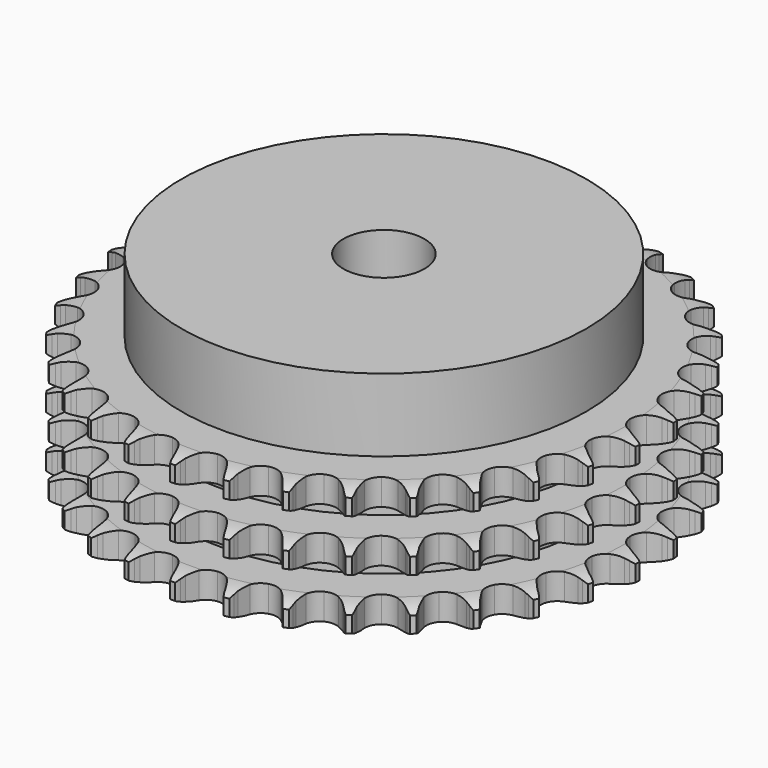
from build123d import *

# Parameters (mm, degrees)
PAD_DEPTH         = 25.6
SKETCH001_R       = 40
PAD001_DEPTH      = 40
SKETCH002_R       = 8
POCKET_DEPTH      = 0.001
POCKET_DEPTH_BACK = 40.001


with BuildPart() as part:
    # Sprocket → Pad (new body)
    with BuildSketch(Plane.XY):
        with BuildLine():
            ThreePointArc((-5.033928, 52.71768), (-4.450917, 51.93788), (-4.025047, 51.062309))
            Line((-4.025047, 51.062309), (-3.715267, 50.23443))
            ThreePointArc((-3.715267, 50.23443), (-3.223756, 49.160429), (-2.584928, 48.16697))
            ThreePointArc((-2.584928, 48.16697), (-1.445345, 47.214591), (0, 46.873047))
            ThreePointArc((0, 46.873047), (1.445345, 47.214591), (2.584928, 48.16697))
            ThreePointArc((2.584928, 48.16697), (3.223756, 49.160429), (3.715267, 50.23443))
            Line((3.715267, 50.23443), (4.025047, 51.062309))
            ThreePointArc((4.025047, 51.062309), (4.450917, 51.93788), (5.033928, 52.71768))
            ThreePointArc((5.033928, 52.71768), (5.458825, 51.841637), (5.711296, 50.901292))
            Line((5.711296, 50.901292), (5.858802, 50.029748))
            ThreePointArc((5.858802, 50.029748), (6.138174, 48.882135), (6.577444, 47.785731))
            ThreePointArc((6.577444, 47.785731), (7.516195, 46.634895), (8.870783, 46.02599))
            ThreePointArc((8.870783, 46.02599), (10.354646, 46.087829), (11.653874, 46.807329))
            Line((11.653874, 46.807329), (13.155055, 48.62351))
            ThreePointArc((13.155055, 48.62351), (13.375447, 49.006789), (13.615915, 49.377801))
            ThreePointArc((13.615915, 49.377801), (14.199792, 50.156953), (14.919845, 50.812326))
            ThreePointArc((14.919845, 50.812326), (15.171271, 49.871701), (15.241218, 48.900569))
            Line((15.241218, 48.900569), (15.221117, 48.016859))
            ThreePointArc((15.221117, 48.016859), (15.278254, 46.837115), (15.50209, 45.677391))
            ThreePointArc((15.50209, 45.677391), (16.206079, 44.369693), (17.420952, 43.515434))
            ThreePointArc((17.420952, 43.515434), (18.889703, 43.295332), (20.301618, 43.75595))
            Line((20.301618, 43.75595), (22.119386, 45.255209))
            ThreePointArc((22.119386, 45.255209), (22.408331, 45.589852), (22.714668, 45.908651))
            ThreePointArc((22.714668, 45.908651), (23.435449, 46.563224), (24.26652, 47.070481))
            ThreePointArc((24.26652, 47.070481), (24.335388, 46.099273), (24.220283, 45.132453))
            Line((24.220283, 45.132453), (24.033302, 44.268517))
            ThreePointArc((24.033302, 44.268517), (23.866138, 43.099278), (23.86645, 41.918151))
            ThreePointArc((23.86645, 41.918151), (24.310234, 40.500854), (25.341483, 39.432117))
            ThreePointArc((25.341483, 39.432117), (26.742037, 38.938029), (28.215609, 39.123116))
            Line((28.215609, 39.123116), (30.284265, 40.251267))
            ThreePointArc((30.284265, 40.251267), (30.63132, 40.525179), (30.992454, 40.780243))
            ThreePointArc((30.992454, 40.780243), (31.824088, 41.286578), (32.736139, 41.627388))
            ThreePointArc((32.736139, 41.627388), (32.619961, 40.660696), (32.323964, 39.733132))
            Line((32.323964, 39.733132), (31.976861, 38.920195))
            ThreePointArc((31.976861, 38.920195), (31.591438, 37.803722), (31.368215, 36.64388))
            ThreePointArc((31.368215, 36.64388), (31.535753, 35.168209), (32.346106, 33.92362))
            ThreePointArc((32.346106, 33.92362), (33.627844, 33.173405), (35.109815, 33.076271))
            Line((35.109815, 33.076271), (37.354591, 33.79254))
            ThreePointArc((37.354591, 33.79254), (37.747213, 33.995821), (38.150092, 34.177931))
            ThreePointArc((38.150092, 34.177931), (39.062521, 34.517727), (40.02259, 34.679771))
            ThreePointArc((40.02259, 34.679771), (39.725563, 33.752536), (39.259373, 32.897752))
            Line((39.259373, 32.897752), (38.764693, 32.165195))
            ThreePointArc((38.764693, 32.165195), (38.174941, 31.141841), (37.73625, 30.045203))
            ThreePointArc((37.73625, 30.045203), (37.621488, 28.564493), (38.181657, 27.189035))
            ThreePointArc((38.181657, 27.189035), (39.298253, 26.209807), (40.73506, 25.833964))
            Line((40.73506, 25.833964), (43.074825, 26.112462))
            ThreePointArc((43.074825, 26.112462), (43.498823, 26.237765), (43.928886, 26.340339))
            ThreePointArc((43.928886, 26.340339), (44.889133, 26.501316), (45.862519, 26.478738))
            ThreePointArc((45.862519, 26.478738), (45.39538, 25.624472), (44.775845, 24.873362))
            Line((44.775845, 24.873362), (44.151468, 24.247662))
            ThreePointArc((44.151468, 24.247662), (43.378702, 23.354412), (42.740399, 22.360615))
            ThreePointArc((42.740399, 22.360615), (42.347485, 20.928382), (42.637224, 19.471768))
            ThreePointArc((42.637224, 19.471768), (43.548321, 18.298918), (44.888034, 17.657949))
            Line((44.888034, 17.657949), (47.238223, 17.488611))
            ThreePointArc((47.238223, 17.488611), (47.678272, 17.531408), (48.119975, 17.550738))
            ThreePointArc((48.119975, 17.550738), (49.093335, 17.527078), (50.044858, 17.320694))
            ThreePointArc((50.044858, 17.320694), (49.424489, 16.570272), (48.674002, 15.949983))
            Line((48.674002, 15.949983), (47.942493, 15.453755))
            ThreePointArc((47.942493, 15.453755), (47.014644, 14.722894), (46.199799, 13.867856))
            ThreePointArc((46.199799, 13.867856), (45.542933, 12.535865), (45.55177, 11.05074))
            ThreePointArc((45.55177, 11.05074), (46.224439, 9.726659), (47.418638, 8.843731))
            Line((47.418638, 8.843731), (49.694308, 8.232677))
            ThreePointArc((49.694308, 8.232677), (50.134505, 8.191421), (50.571884, 8.126808))
            ThreePointArc((50.571884, 8.126808), (51.523176, 7.919367), (52.418445, 7.536635))
            ThreePointArc((52.418445, 7.536635), (51.667269, 6.91718), (50.812953, 6.450131))
            Line((50.812953, 6.450131), (50.000752, 6.101309))
            ThreePointArc((50.000752, 6.101309), (48.951354, 5.559252), (47.989417, 4.873877))
            ThreePointArc((47.989417, 4.873877), (47.092341, 3.690268), (46.819956, 2.230309))
            ThreePointArc((46.819956, 2.230309), (47.229885, 0.802853), (48.235409, -0.290123))
            Line((48.235409, -0.290123), (50.354311, -1.320808))
            ThreePointArc((50.354311, -1.320808), (50.778745, -1.444626), (51.195992, -1.590846))
            ThreePointArc((51.195992, -1.590846), (52.090835, -1.974572), (52.897493, -2.519818))
            ThreePointArc((52.897493, -2.519818), (52.042659, -2.985918), (51.115392, -3.282846))
            Line((51.115392, -3.282846), (50.251854, -3.471654))
            ThreePointArc((50.251854, -3.471654), (49.118835, -3.805315), (48.044573, -4.296258))
            ThreePointArc((48.044573, -4.296258), (46.939709, -5.288704), (46.395947, -6.67073))
            ThreePointArc((46.395947, -6.67073), (46.528321, -8.14997), (47.308826, -9.413491))
            Line((47.308826, -9.413491), (49.194379, -10.826555))
            ThreePointArc((49.194379, -10.826555), (49.58771, -11.028461), (49.969745, -11.251002))
            ThreePointArc((49.969745, -11.251002), (50.775796, -11.797144), (51.464687, -12.485198))
            ThreePointArc((51.464687, -12.485198), (50.537092, -12.781096), (49.570388, -12.897173))
            Line((49.570388, -12.897173), (48.686723, -12.919143))
            ThreePointArc((48.686723, -12.919143), (47.511033, -13.032349), (46.363273, -13.311114))
            ThreePointArc((46.363273, -13.311114), (45.090553, -14.076528), (44.295068, -15.330672))
            ThreePointArc((44.295068, -15.330672), (44.145101, -16.808232), (44.672379, -18.196631))
            Line((44.672379, -18.196631), (46.256433, -19.941003))
            ThreePointArc((46.256433, -19.941003), (46.604445, -20.213698), (46.93746, -20.504518))
            ThreePointArc((46.93746, -20.504518), (47.625587, -21.193337), (48.171814, -21.99933))
            ThreePointArc((48.171814, -21.99933), (47.204982, -22.114333), (46.233781, -22.045361))
            Line((46.233781, -22.045361), (45.361926, -21.8997))
            ThreePointArc((45.361926, -21.8997), (44.186058, -21.78836), (43.006283, -21.844872))
            ThreePointArc((43.006283, -21.844872), (41.611708, -22.35559), (40.59325, -23.436524))
            ThreePointArc((40.59325, -23.436524), (40.166363, -24.859001), (40.421356, -26.322098))
            Line((40.421356, -26.322098), (41.64666, -28.33473))
            ThreePointArc((41.64666, -28.33473), (41.936775, -28.668359), (42.208733, -29.016948))
            ThreePointArc((42.208733, -29.016948), (42.754065, -29.823547), (43.137886, -30.71835))
            ThreePointArc((43.137886, -30.71835), (42.166762, -30.6483), (41.226164, -30.396773))
            Line((41.226164, -30.396773), (40.397632, -30.088745))
            ThreePointArc((40.397632, -30.088745), (39.264084, -29.756882), (38.094934, -29.589099))
            ThreePointArc((38.094934, -29.589099), (36.628907, -29.826663), (35.424286, -30.695318))
            ThreePointArc((35.424286, -30.695318), (34.735908, -32.011301), (34.709399, -33.496215))
            Line((34.709399, -33.496215), (35.531667, -35.704367))
            ThreePointArc((35.531667, -35.704367), (35.7534, -36.086872), (35.954473, -36.480629))
            ThreePointArc((35.954473, -36.480629), (36.3373, -37.375857), (36.544842, -38.327128))
            ThreePointArc((36.544842, -38.327128), (35.604524, -38.074557), (34.728526, -37.649567))
            Line((34.728526, -37.649567), (33.973261, -37.190304))
            ThreePointArc((33.973261, -37.190304), (32.923004, -36.649913), (31.806736, -36.263899))
            ThreePointArc((31.806736, -36.263899), (30.322242, -36.219723), (28.974995, -36.844704))
            ThreePointArc((28.974995, -36.844704), (28.050006, -38.006628), (27.742955, -39.459692))
            Line((27.742955, -39.459692), (28.132468, -41.783555))
            ThreePointArc((28.132468, -41.783555), (28.277804, -42.20111), (28.400724, -42.625805))
            ThreePointArc((28.400724, -42.625805), (28.60721, -43.577306), (28.630973, -44.550663))
            ThreePointArc((28.630973, -44.550663), (27.755447, -44.124701), (26.975709, -43.541607))
            Line((26.975709, -43.541607), (26.321009, -42.947709))
            ThreePointArc((26.321009, -42.947709), (25.392001, -42.218321), (24.368958, -41.628028))
            ThreePointArc((24.368958, -41.628028), (22.919652, -41.303707), (21.478473, -41.662426))
            ThreePointArc((21.478473, -41.662426), (20.350304, -42.628298), (19.773808, -43.996993))
            Line((19.773808, -43.996993), (19.716488, -46.352576))
            ThreePointArc((19.716488, -46.352576), (19.780175, -46.790091), (19.8205, -47.230374))
            ThreePointArc((19.8205, -47.230374), (19.843181, -48.203757), (19.682305, -49.164022))
            ThreePointArc((19.682305, -49.164022), (18.903215, -48.580063), (18.247919, -47.85994))
            Line((18.247919, -47.85994), (17.717447, -47.152872))
            ThreePointArc((17.717447, -47.152872), (16.943265, -46.260849), (16.050423, -45.487611))
            ThreePointArc((16.050423, -45.487611), (14.688686, -44.894868), (13.205663, -44.97436))
            ThreePointArc((13.205663, -44.97436), (11.915089, -45.709269), (11.089984, -46.944127))
            Line((11.089984, -46.944127), (10.587902, -49.246295))
            ThreePointArc((10.587902, -49.246295), (10.567638, -49.687956), (10.52391, -50.127914))
            ThreePointArc((10.52391, -50.127914), (10.361968, -51.087999), (10.022268, -52.000465))
            ThreePointArc((10.022268, -52.000465), (9.367772, -51.279615), (8.860603, -50.44849))
            Line((8.860603, -50.44849), (8.47353, -49.653807))
            ThreePointArc((8.47353, -49.653807), (7.882155, -48.631389), (7.151784, -47.703153))
            ThreePointArc((7.151784, -47.703153), (5.926832, -46.863411), (4.455566, -46.660802))
            ThreePointArc((4.455566, -46.660802), (3.049232, -47.138189), (2.005339, -48.194579))
            Line((2.005339, -48.194579), (1.076643, -50.360124))
            ThreePointArc((1.076643, -50.360124), (0.97316, -50.789968), (0.84696, -51.2137))
            ThreePointArc((0.84696, -51.2137), (0.506246, -52.125788), (0, -52.957475))
            ThreePointArc((0, -52.957475), (-0.506246, -52.125788), (-0.84696, -51.2137))
            Line((-0.84696, -51.2137), (-1.076643, -50.360124))
            ThreePointArc((-1.076643, -50.360124), (-1.463837, -49.244264), (-2.005339, -48.194579))
            ThreePointArc((-2.005339, -48.194579), (-3.049232, -47.138189), (-4.455566, -46.660802))
            ThreePointArc((-4.455566, -46.660802), (-5.926832, -46.863411), (-7.151784, -47.703153))
            Line((-7.151784, -47.703153), (-8.47353, -49.653807))
            ThreePointArc((-8.47353, -49.653807), (-8.656491, -50.056299), (-8.860603, -50.44849))
            ThreePointArc((-8.860603, -50.44849), (-9.367772, -51.279615), (-10.022268, -52.000465))
            ThreePointArc((-10.022268, -52.000465), (-10.361968, -51.087999), (-10.52391, -50.127914))
            Line((-10.52391, -50.127914), (-10.587902, -49.246295))
            ThreePointArc((-10.587902, -49.246295), (-10.756922, -48.077323), (-11.089984, -46.944127))
            ThreePointArc((-11.089984, -46.944127), (-11.915089, -45.709269), (-13.205663, -44.97436))
            ThreePointArc((-13.205663, -44.97436), (-14.688686, -44.894868), (-16.050423, -45.487611))
            Line((-16.050423, -45.487611), (-17.717447, -47.152872))
            ThreePointArc((-17.717447, -47.152872), (-17.973274, -47.513465), (-18.247919, -47.85994))
            ThreePointArc((-18.247919, -47.85994), (-18.903215, -48.580063), (-19.682305, -49.164022))
            ThreePointArc((-19.682305, -49.164022), (-19.843181, -48.203757), (-19.8205, -47.230374))
            Line((-19.8205, -47.230374), (-19.716488, -46.352576))
            ThreePointArc((-19.716488, -46.352576), (-19.661223, -45.172742), (-19.773808, -43.996993))
            ThreePointArc((-19.773808, -43.996993), (-20.350304, -42.628298), (-21.478473, -41.662426))
            ThreePointArc((-21.478473, -41.662426), (-22.919652, -41.303707), (-24.368958, -41.628028))
            Line((-24.368958, -41.628028), (-26.321009, -42.947709))
            ThreePointArc((-26.321009, -42.947709), (-26.640456, -43.25337), (-26.975709, -43.541607))
            ThreePointArc((-26.975709, -43.541607), (-27.755447, -44.124701), (-28.630973, -44.550663))
            ThreePointArc((-28.630973, -44.550663), (-28.60721, -43.577306), (-28.400724, -42.625805))
            Line((-28.400724, -42.625805), (-28.132468, -41.783555))
            ThreePointArc((-28.132468, -41.783555), (-27.854917, -40.635501), (-27.742955, -39.459692))
            ThreePointArc((-27.742955, -39.459692), (-28.050006, -38.006628), (-28.974995, -36.844704))
            ThreePointArc((-28.974995, -36.844704), (-30.322242, -36.219723), (-31.806736, -36.263899))
            Line((-31.806736, -36.263899), (-33.973261, -37.190304))
            ThreePointArc((-33.973261, -37.190304), (-34.344782, -37.429986), (-34.728526, -37.649567))
            ThreePointArc((-34.728526, -37.649567), (-35.604524, -38.074557), (-36.544842, -38.327128))
            ThreePointArc((-36.544842, -38.327128), (-36.3373, -37.375857), (-35.954473, -36.480629))
            Line((-35.954473, -36.480629), (-35.531667, -35.704367))
            ThreePointArc((-35.531667, -35.704367), (-35.041862, -34.629587), (-34.709399, -33.496215))
            ThreePointArc((-34.709399, -33.496215), (-34.735908, -32.011301), (-35.424286, -30.695318))
            ThreePointArc((-35.424286, -30.695318), (-36.628907, -29.826663), (-38.094934, -29.589099))
            Line((-38.094934, -29.589099), (-40.397632, -30.088745))
            ThreePointArc((-40.397632, -30.088745), (-40.807799, -30.253785), (-41.226164, -30.396773))
            ThreePointArc((-41.226164, -30.396773), (-42.166762, -30.6483), (-43.137886, -30.71835))
            ThreePointArc((-43.137886, -30.71835), (-42.754065, -29.823547), (-42.208733, -29.016948))
            Line((-42.208733, -29.016948), (-41.64666, -28.33473))
            ThreePointArc((-41.64666, -28.33473), (-40.962302, -27.372069), (-40.421356, -26.322098))
            ThreePointArc((-40.421356, -26.322098), (-40.166363, -24.859001), (-40.59325, -23.436524))
            ThreePointArc((-40.59325, -23.436524), (-41.611708, -22.35559), (-43.006283, -21.844872))
            Line((-43.006283, -21.844872), (-45.361926, -21.8997))
            ThreePointArc((-45.361926, -21.8997), (-45.795915, -21.984133), (-46.233781, -22.045361))
            ThreePointArc((-46.233781, -22.045361), (-47.204982, -22.114333), (-48.171814, -21.99933))
            ThreePointArc((-48.171814, -21.99933), (-47.625587, -21.193337), (-46.93746, -20.504518))
            Line((-46.93746, -20.504518), (-46.256433, -19.941003))
            ThreePointArc((-46.256433, -19.941003), (-45.402258, -19.125253), (-44.672379, -18.196631))
            ThreePointArc((-44.672379, -18.196631), (-44.145101, -16.808232), (-44.295068, -15.330672))
            ThreePointArc((-44.295068, -15.330672), (-45.090553, -14.076528), (-46.363273, -13.311114))
            Line((-46.363273, -13.311114), (-48.686723, -12.919143))
            ThreePointArc((-48.686723, -12.919143), (-49.128848, -12.919917), (-49.570388, -12.897173))
            ThreePointArc((-49.570388, -12.897173), (-50.537092, -12.781096), (-51.464687, -12.485198))
            ThreePointArc((-51.464687, -12.485198), (-50.775796, -11.797144), (-49.969745, -11.251002))
            Line((-49.969745, -11.251002), (-49.194379, -10.826555))
            ThreePointArc((-49.194379, -10.826555), (-48.201258, -10.187201), (-47.308826, -9.413491))
            ThreePointArc((-47.308826, -9.413491), (-46.528321, -8.14997), (-46.395947, -6.67073))
            ThreePointArc((-46.395947, -6.67073), (-46.939709, -5.288704), (-48.044573, -4.296258))
            Line((-48.044573, -4.296258), (-50.251854, -3.471654))
            ThreePointArc((-50.251854, -3.471654), (-50.686136, -3.388742), (-51.115392, -3.282846))
            ThreePointArc((-51.115392, -3.282846), (-52.042659, -2.985918), (-52.897493, -2.519818))
            ThreePointArc((-52.897493, -2.519818), (-52.090835, -1.974572), (-51.195992, -1.590846))
            Line((-51.195992, -1.590846), (-50.354311, -1.320808))
            ThreePointArc((-50.354311, -1.320808), (-49.258139, -0.880957), (-48.235409, -0.290123))
            ThreePointArc((-48.235409, -0.290123), (-47.229885, 0.802853), (-46.819956, 2.230309))
            ThreePointArc((-46.819956, 2.230309), (-47.092341, 3.690268), (-47.989417, 4.873877))
            Line((-47.989417, 4.873877), (-50.000752, 6.101309))
            ThreePointArc((-50.000752, 6.101309), (-50.411495, 6.264912), (-50.812953, 6.450131))
            ThreePointArc((-50.812953, 6.450131), (-51.667269, 6.91718), (-52.418445, 7.536635))
            ThreePointArc((-52.418445, 7.536635), (-51.523176, 7.919367), (-50.571884, 8.126808))
            Line((-50.571884, 8.126808), (-49.694308, 8.232677))
            ThreePointArc((-49.694308, 8.232677), (-48.534703, 8.457127), (-47.418638, 8.843731))
            ThreePointArc((-47.418638, 8.843731), (-46.224439, 9.726659), (-45.55177, 11.05074))
            ThreePointArc((-45.55177, 11.05074), (-45.542933, 12.535865), (-46.199799, 13.867856))
            Line((-46.199799, 13.867856), (-47.942493, 15.453755))
            ThreePointArc((-47.942493, 15.453755), (-48.314851, 15.692135), (-48.674002, 15.949983))
            ThreePointArc((-48.674002, 15.949983), (-49.424489, 16.570272), (-50.044858, 17.320694))
            ThreePointArc((-50.044858, 17.320694), (-49.093335, 17.527078), (-48.119975, 17.550738))
            Line((-48.119975, 17.550738), (-47.238223, 17.488611))
            ThreePointArc((-47.238223, 17.488611), (-46.057095, 17.489548), (-44.888034, 17.657949))
            ThreePointArc((-44.888034, 17.657949), (-43.548321, 18.298918), (-42.637224, 19.471768))
            ThreePointArc((-42.637224, 19.471768), (-42.347485, 20.928382), (-42.740399, 22.360615))
            Line((-42.740399, 22.360615), (-44.151468, 24.247662))
            ThreePointArc((-44.151468, 24.247662), (-44.471983, 24.552203), (-44.775845, 24.873362))
            ThreePointArc((-44.775845, 24.873362), (-45.39538, 25.624472), (-45.862519, 26.478738))
            ThreePointArc((-45.862519, 26.478738), (-44.889133, 26.501316), (-43.928886, 26.340339))
            Line((-43.928886, 26.340339), (-43.074825, 26.112462))
            ThreePointArc((-43.074825, 26.112462), (-41.914865, 25.889852), (-40.73506, 25.833964))
            ThreePointArc((-40.73506, 25.833964), (-39.298253, 26.209807), (-38.181657, 27.189035))
            ThreePointArc((-38.181657, 27.189035), (-37.621488, 28.564493), (-37.73625, 30.045203))
            Line((-37.73625, 30.045203), (-38.764693, 32.165195))
            ThreePointArc((-38.764693, 32.165195), (-39.021781, 32.524891), (-39.259373, 32.897752))
            ThreePointArc((-39.259373, 32.897752), (-39.725563, 33.752536), (-40.02259, 34.679771))
            ThreePointArc((-40.02259, 34.679771), (-39.062521, 34.517727), (-38.150092, 34.177931))
            Line((-38.150092, 34.177931), (-37.354591, 33.79254))
            ThreePointArc((-37.354591, 33.79254), (-36.257722, 33.354429), (-35.109815, 33.076271))
            ThreePointArc((-35.109815, 33.076271), (-33.627844, 33.173405), (-32.346106, 33.92362))
            ThreePointArc((-32.346106, 33.92362), (-31.535753, 35.168209), (-31.368215, 36.64388))
            Line((-31.368215, 36.64388), (-31.976861, 38.920195))
            ThreePointArc((-31.976861, 38.920195), (-32.161231, 39.322044), (-32.323964, 39.733132))
            ThreePointArc((-32.323964, 39.733132), (-32.619961, 40.660696), (-32.736139, 41.627388))
            ThreePointArc((-32.736139, 41.627388), (-31.824088, 41.286578), (-30.992454, 40.780243))
            Line((-30.992454, 40.780243), (-30.284265, 40.251267))
            ThreePointArc((-30.284265, 40.251267), (-29.290131, 39.61349), (-28.215609, 39.123116))
            ThreePointArc((-28.215609, 39.123116), (-26.742037, 38.938029), (-25.341483, 39.432117))
            ThreePointArc((-25.341483, 39.432117), (-24.310234, 40.500854), (-23.86645, 41.918151))
            Line((-23.86645, 41.918151), (-24.033302, 44.268517))
            ThreePointArc((-24.033302, 44.268517), (-24.13829, 44.697997), (-24.220283, 45.132453))
            ThreePointArc((-24.220283, 45.132453), (-24.335388, 46.099273), (-24.26652, 47.070481))
            ThreePointArc((-24.26652, 47.070481), (-23.435449, 46.563224), (-22.714668, 45.908651))
            Line((-22.714668, 45.908651), (-22.119386, 45.255209))
            ThreePointArc((-22.119386, 45.255209), (-21.263917, 44.440816), (-20.301618, 43.75595))
            ThreePointArc((-20.301618, 43.75595), (-18.889703, 43.295332), (-17.420952, 43.515434))
            ThreePointArc((-17.420952, 43.515434), (-16.206079, 44.369693), (-15.50209, 45.677391))
            Line((-15.50209, 45.677391), (-15.221117, 48.016859))
            ThreePointArc((-15.221117, 48.016859), (-15.242928, 48.458447), (-15.241218, 48.900569))
            ThreePointArc((-15.241218, 48.900569), (-15.171271, 49.871701), (-14.919845, 50.812326))
            ThreePointArc((-14.919845, 50.812326), (-14.199792, 50.156953), (-13.615915, 49.377801))
            Line((-13.615915, 49.377801), (-13.155055, 48.62351))
            ThreePointArc((-13.155055, 48.62351), (-12.469171, 47.661936), (-11.653874, 46.807329))
            ThreePointArc((-11.653874, 46.807329), (-10.354646, 46.087829), (-8.870783, 46.02599))
            ThreePointArc((-8.870783, 46.02599), (-7.516195, 46.634895), (-6.577444, 47.785731))
            Line((-6.577444, 47.785731), (-5.858802, 50.029748))
            ThreePointArc((-5.858802, 50.029748), (-5.796647, 50.467483), (-5.711296, 50.901292))
            ThreePointArc((-5.711296, 50.901292), (-5.458825, 51.841637), (-5.033928, 52.71768))
        make_face()
    extrude(amount=PAD_DEPTH)

    # Sketch → Groove (revolve, cut)
    with BuildSketch(Plane.XZ):
        with BuildLine():
            ThreePointArc((47.791101, 0), (50.027169, 0.253206), (52.15, 1))
            Line((52.15, 1), (52.15, 4.2))
            ThreePointArc((52.15, 4.2), (50.027169, 4.946794), (47.791101, 5.2))
            Line((40, 5.2), (47.791101, 5.2))
            Line((40, 5.2), (40, 10.2))
            Line((40, 10.2), (47.791101, 10.2))
            ThreePointArc((47.791101, 10.2), (50.027169, 10.453206), (52.15, 11.2))
            Line((52.15, 14.4), (52.15, 11.2))
            ThreePointArc((52.15, 14.4), (50.027169, 15.146794), (47.791101, 15.4))
            Line((40, 15.4), (47.791101, 15.4))
            Line((40, 20.4), (40, 15.4))
            Line((47.791101, 20.4), (40, 20.4))
            ThreePointArc((47.791101, 20.4), (50.027169, 20.653206), (52.15, 21.4))
            Line((52.15, 21.4), (52.15, 24.6))
            ThreePointArc((52.15, 24.6), (50.027169, 25.346794), (47.791101, 25.6))
            Line((47.791101, 25.6), (62.15, 25.6))
            Line((62.15, 25.6), (62.15, 0))
            Line((47.791101, 0), (62.15, 0))
        make_face()
    revolve(axis=Axis((0, 0, 0), (0, 0, 1)), mode=Mode.SUBTRACT)

    # Sketch001 → Pad001 (join)
    with BuildSketch(Plane.XY):
        Circle(SKETCH001_R)
    extrude(amount=PAD001_DEPTH)

    # Sketch002 → Pocket (cut, two sides)
    with BuildSketch(Plane.XY) as pocket_sk:
        Circle(SKETCH002_R)
    extrude(amount=-POCKET_DEPTH, mode=Mode.SUBTRACT)
    extrude(pocket_sk.sketch, amount=POCKET_DEPTH_BACK, mode=Mode.SUBTRACT)


solid = part.part
